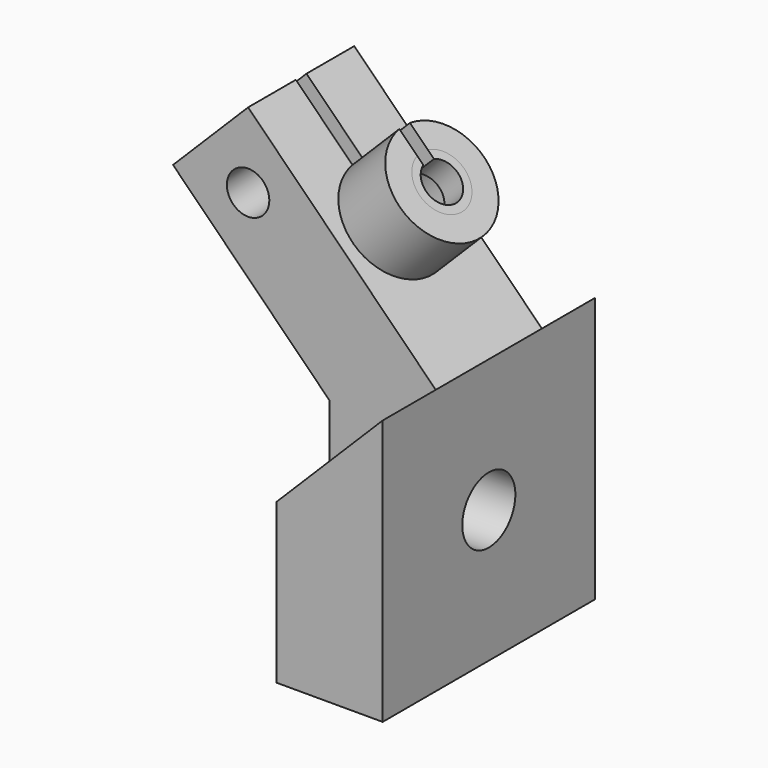
from build123d import *

# Parameters (mm, degrees)
PAD_DEPTH            = 10
SKETCH001_R          = 2.5
POCKET_DEPTH         = 19.79999
SKETCH002_R          = 2.125
POCKET001_DEPTH      = 28.143136
SKETCH003_R          = 4
SKETCH003_R_2        = 2.125
PAD001_DEPTH         = 5
SKETCH004_R          = 2.125
SKETCH004_R_2        = 1.5
PAD002_DEPTH         = 2
SKETCH005_W          = 20
SKETCH005_H          = 5
SKETCH005_W_2        = 9.142136
SKETCH005_H_2        = 1
POCKET002_DEPTH      = 28.143136
POCKET002_DEPTH_BACK = -10.001
SKETCH006_R          = 1.6
POCKET003_DEPTH      = 15.001
POCKET004_DEPTH      = 3
SKETCH008_R          = 5
POCKET005_DEPTH      = 2


with BuildPart() as part:
    # Sketch → Pad (new body, symmetric)
    with BuildSketch(Plane.XZ):
        Polygon((0, 0), (0, 20), (-14.142136, 34.142136), (-19.79899, 28.485281), (-8, 16.686292), (-8, 0), align=None)
    extrude(amount=PAD_DEPTH, both=True)

    # Sketch001 (on Face1 of Pad) → Pocket (cut, through all)
    with BuildSketch(Plane(origin=(0, 0, 0), x_dir=(0, 0, 1), z_dir=(1, 0, 0))):
        with Locations((10, 0)):
            Circle(SKETCH001_R)
    extrude(amount=-POCKET_DEPTH, mode=Mode.SUBTRACT)

    # Sketch002 (on Face5 of Pocket) → Pocket001 (cut, through all)
    with BuildSketch(Plane(origin=(10, 0, 10), x_dir=(-0.707107, 0, 0.707107), z_dir=(0.707107, 0, 0.707107))):
        with Locations((24.142136, 0)):
            Circle(SKETCH002_R)
    extrude(amount=-POCKET001_DEPTH, mode=Mode.SUBTRACT)

    # Sketch003 (on Face5 of Pocket001) → Pad001 (join)
    with BuildSketch(Plane(origin=(10, 0, 10), x_dir=(-0.707107, 0, 0.707107), z_dir=(0.707107, 0, 0.707107))):
        with Locations((24.142136, 0)):
            Circle(SKETCH003_R)
        with Locations((24.142136, 0)):
            Circle(SKETCH003_R_2, mode=Mode.SUBTRACT)
    extrude(amount=PAD001_DEPTH)

    # Sketch004 (on Face11 of Pad001) → Pad002 (join)
    with BuildSketch(Plane(origin=(13.535534, 0, 13.535534), x_dir=(-0.707107, 0, 0.707107), z_dir=(0.707107, 0, 0.707107))):
        with Locations((24.142136, 0)):
            Circle(SKETCH004_R)
        with Locations((24.142136, 0)):
            Circle(SKETCH004_R_2, mode=Mode.SUBTRACT)
    extrude(amount=-PAD002_DEPTH)

    # Sketch005 (on Face5 of Pad002) → Pocket002 (cut, two sides)
    with BuildSketch(Plane(origin=(10, 0, 10), x_dir=(-0.707107, 0, 0.707107), z_dir=(0.707107, 0, 0.707107))) as pocket002_sk:
        with Locations((24.142136, 7.5)):
            Rectangle(SKETCH005_W, SKETCH005_H)
        with Locations((24.142136, -7.5)):
            Rectangle(SKETCH005_W, SKETCH005_H)
        with Locations((29.571068, 0)):
            Rectangle(SKETCH005_W_2, SKETCH005_H_2)
    extrude(amount=-POCKET002_DEPTH, mode=Mode.SUBTRACT)
    extrude(pocket002_sk.sketch, amount=-POCKET002_DEPTH_BACK, mode=Mode.SUBTRACT)

    # Sketch006 (on Face16 of Pocket002) → Pocket003 (cut, through all)
    with BuildSketch(Plane.XZ.offset(5)):
        with Locations((-14.142136, 28.485281)):
            Circle(SKETCH006_R)
    extrude(amount=-POCKET003_DEPTH, mode=Mode.SUBTRACT)

    # Sketch007 (on Face10 of Pocket003) → Pocket004 (cut)
    with BuildSketch(Plane(origin=(0, 5, 0), x_dir=(1, 0, 0), z_dir=(0, 1, 0))):
        Polygon((-11.002877, -29.326443), (-11.844039, -26.187184), (-14.983298, -25.346022), (-17.281395, -27.644119), (-16.440233, -30.783378), (-13.300974, -31.62454), align=None)
    extrude(amount=-POCKET004_DEPTH, mode=Mode.SUBTRACT)

    # Sketch008 (on Face9 of Pocket004) → Pocket005 (cut)
    with BuildSketch(Plane(origin=(-8, 0, 0), x_dir=(0, 0, -1), z_dir=(-1, 0, 0))):
        with Locations((-10, 0)):
            Circle(SKETCH008_R)
    extrude(amount=-POCKET005_DEPTH, mode=Mode.SUBTRACT)


solid = part.part
